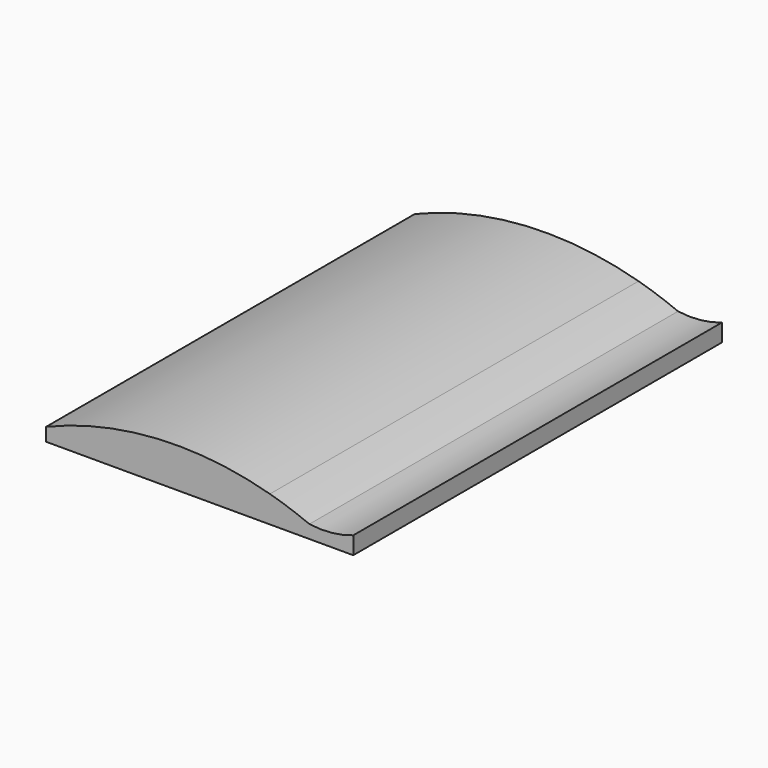
from build123d import *

# Parameters (mm, degrees)
F1_DEPTH = 266.7
F2_DEPTH = 266.7


with BuildPart() as f1:
    # F0 (on Front) → F1 (new body)
    with BuildSketch(Plane.XZ):
        with BuildLine():
            Line((1.9e-05, 0), (1.9e-05, 15.544557))
            ThreePointArc((1.9e-05, 15.544557), (-65.437277, 22.490322), (-129.539981, 7.62))
            Line((-129.539981, 7.62), (-129.539981, 0))
            Line((-129.539981, 0), (1.9e-05, 0))
        make_face()
    extrude(amount=F1_DEPTH)

    # F0 (on Front) → F2 (join)
    with BuildSketch(Plane.XZ):
        with BuildLine():
            Line((1.9e-05, 0), (1.9e-05, 15.544557))
            ThreePointArc((1.9e-05, 15.544557), (-65.437277, 22.490322), (-129.539981, 7.62))
            Line((-129.539981, 7.62), (-129.539981, 0))
            Line((-129.539981, 0), (1.9e-05, 0))
        make_face()
        with BuildLine():
            ThreePointArc((48.260019, 10.16), (35.713201, 7.358175), (22.860019, 7.62))
            ThreePointArc((22.860019, 7.62), (11.551101, 11.931565), (1.9e-05, 15.544557))
            Line((1.9e-05, 15.544557), (1.9e-05, 0))
            Line((1.9e-05, 0), (48.260019, 0))
            Line((48.260019, 0), (48.260019, 10.16))
        make_face()
    extrude(amount=F2_DEPTH)


solid = f1.part
